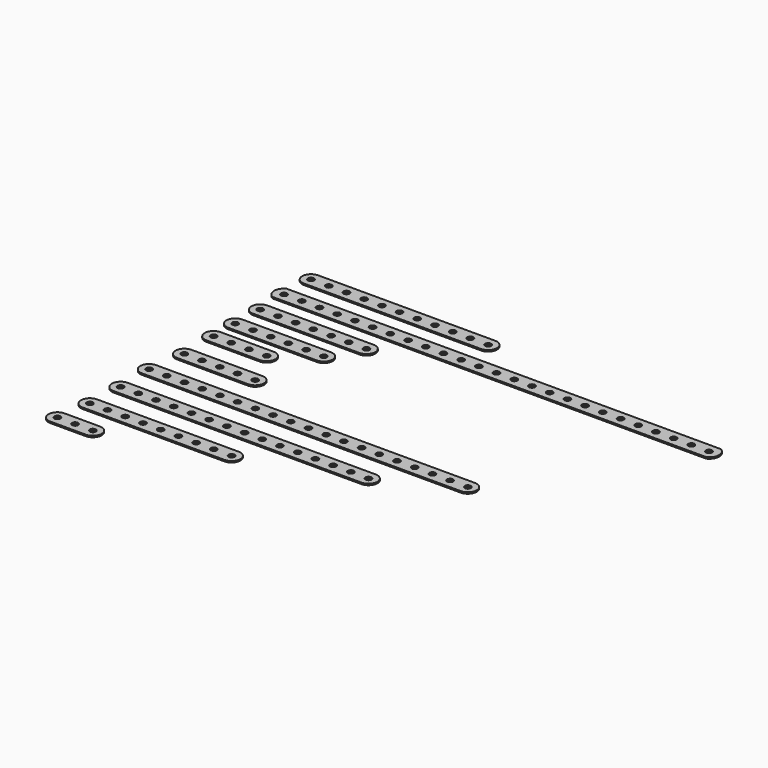
from build123d import *

# Parameters (mm, degrees)
F0_R      = 2.1844
F1_DEPTH  = 1.016
F2_R      = 2.1844
F3_DEPTH  = 1.016
F4_R      = 2.1844
F5_DEPTH  = 1.016
F6_R      = 2.1844
F7_DEPTH  = 1.016
F8_R      = 2.1844
F9_DEPTH  = 1.016
F10_R     = 2.1844
F11_DEPTH = 1.016
F12_R     = 2.1844
F13_DEPTH = 1.016
F14_R     = 2.1844
F15_DEPTH = 1.016
F16_R     = 2.1844
F17_DEPTH = 1.016
F18_R     = 2.1844
F19_DEPTH = 1.016


with BuildPart() as f1:
    # F0 (on Top) → F1 (new body)
    with BuildSketch(Plane.XY):
        with BuildLine():
            Line((314.193466, 70.57017), (2.68476, 70.57017))
            ThreePointArc((2.68476, 70.57017), (-1.193804, 64.22017), (2.68476, 57.87017))
            Line((2.68476, 57.87017), (313.796088, 57.87017))
            ThreePointArc((313.796088, 57.87017), (317.877509, 64.098681), (314.193466, 70.57017))
        make_face()
        with Locations((5.9436, 64.22017)):
            Circle(F0_R, mode=Mode.SUBTRACT)
        with Locations((18.6436, 64.22017)):
            Circle(F0_R, mode=Mode.SUBTRACT)
        with Locations((31.3436, 64.22017)):
            Circle(F0_R, mode=Mode.SUBTRACT)
        with Locations((44.0436, 64.22017)):
            Circle(F0_R, mode=Mode.SUBTRACT)
        with Locations((56.7436, 64.22017)):
            Circle(F0_R, mode=Mode.SUBTRACT)
        with Locations((69.4436, 64.22017)):
            Circle(F0_R, mode=Mode.SUBTRACT)
        with Locations((82.1436, 64.22017)):
            Circle(F0_R, mode=Mode.SUBTRACT)
        with Locations((94.8436, 64.22017)):
            Circle(F0_R, mode=Mode.SUBTRACT)
        with Locations((107.5436, 64.22017)):
            Circle(F0_R, mode=Mode.SUBTRACT)
        with Locations((120.2436, 64.22017)):
            Circle(F0_R, mode=Mode.SUBTRACT)
        with Locations((132.9436, 64.22017)):
            Circle(F0_R, mode=Mode.SUBTRACT)
        with Locations((145.6436, 64.22017)):
            Circle(F0_R, mode=Mode.SUBTRACT)
        with Locations((158.3436, 64.22017)):
            Circle(F0_R, mode=Mode.SUBTRACT)
        with Locations((171.0436, 64.22017)):
            Circle(F0_R, mode=Mode.SUBTRACT)
        with Locations((183.7436, 64.22017)):
            Circle(F0_R, mode=Mode.SUBTRACT)
        with Locations((196.4436, 64.22017)):
            Circle(F0_R, mode=Mode.SUBTRACT)
        with Locations((209.1436, 64.22017)):
            Circle(F0_R, mode=Mode.SUBTRACT)
        with Locations((221.8436, 64.22017)):
            Circle(F0_R, mode=Mode.SUBTRACT)
        with Locations((234.5436, 64.22017)):
            Circle(F0_R, mode=Mode.SUBTRACT)
        with Locations((247.2436, 64.22017)):
            Circle(F0_R, mode=Mode.SUBTRACT)
        with Locations((259.9436, 64.22017)):
            Circle(F0_R, mode=Mode.SUBTRACT)
        with Locations((272.6436, 64.22017)):
            Circle(F0_R, mode=Mode.SUBTRACT)
        with Locations((285.3436, 64.22017)):
            Circle(F0_R, mode=Mode.SUBTRACT)
        with Locations((298.0436, 64.22017)):
            Circle(F0_R, mode=Mode.SUBTRACT)
        with Locations((310.7436, 64.22017)):
            Circle(F0_R, mode=Mode.SUBTRACT)
    extrude(amount=F1_DEPTH)


with BuildPart() as f3:
    # F2 (on Top) → F3 (new body)
    with BuildSketch(Plane.XY):
        with BuildLine():
            Line((133.349999, 94.23753), (6.349999, 94.23753))
            ThreePointArc((6.349999, 94.23753), (-1e-06, 87.88753), (6.349999, 81.53753))
            Line((6.349999, 81.53753), (133.349999, 81.53753))
            ThreePointArc((133.349999, 81.53753), (139.699999, 87.88753), (133.349999, 94.23753))
        make_face()
        with Locations((6.349999, 87.88753)):
            Circle(F2_R, mode=Mode.SUBTRACT)
        with Locations((19.049999, 87.88753)):
            Circle(F2_R, mode=Mode.SUBTRACT)
        with Locations((31.749999, 87.88753)):
            Circle(F2_R, mode=Mode.SUBTRACT)
        with Locations((44.449999, 87.88753)):
            Circle(F2_R, mode=Mode.SUBTRACT)
        with Locations((57.149999, 87.88753)):
            Circle(F2_R, mode=Mode.SUBTRACT)
        with Locations((69.849999, 87.88753)):
            Circle(F2_R, mode=Mode.SUBTRACT)
        with Locations((82.549999, 87.88753)):
            Circle(F2_R, mode=Mode.SUBTRACT)
        with Locations((95.249999, 87.88753)):
            Circle(F2_R, mode=Mode.SUBTRACT)
        with Locations((107.949999, 87.88753)):
            Circle(F2_R, mode=Mode.SUBTRACT)
        with Locations((120.649999, 87.88753)):
            Circle(F2_R, mode=Mode.SUBTRACT)
        with Locations((133.349999, 87.88753)):
            Circle(F2_R, mode=Mode.SUBTRACT)
    extrude(amount=F3_DEPTH)


with BuildPart() as f5:
    # F4 (on Top) → F5 (new body)
    with BuildSketch(Plane.XY):
        with BuildLine():
            Line((83.154835, 47.89984), (6.954835, 47.89984))
            ThreePointArc((6.954835, 47.89984), (0.604835, 41.54984), (6.954835, 35.19984))
            Line((6.954835, 35.19984), (83.154835, 35.19984))
            ThreePointArc((83.154835, 35.19984), (89.504835, 41.54984), (83.154835, 47.89984))
        make_face()
        with Locations((6.954835, 41.54984)):
            Circle(F4_R, mode=Mode.SUBTRACT)
        with Locations((19.654835, 41.54984)):
            Circle(F4_R, mode=Mode.SUBTRACT)
        with Locations((32.354835, 41.54984)):
            Circle(F4_R, mode=Mode.SUBTRACT)
        with Locations((45.054835, 41.54984)):
            Circle(F4_R, mode=Mode.SUBTRACT)
        with Locations((57.754835, 41.54984)):
            Circle(F4_R, mode=Mode.SUBTRACT)
        with Locations((70.454835, 41.54984)):
            Circle(F4_R, mode=Mode.SUBTRACT)
        with Locations((83.154835, 41.54984)):
            Circle(F4_R, mode=Mode.SUBTRACT)
    extrude(amount=F5_DEPTH)


with BuildPart() as f7:
    # F6 (on Top) → F7 (new body)
    with BuildSketch(Plane.XY):
        with BuildLine():
            Line((70.170102, 25.907999), (6.670102, 25.907999))
            ThreePointArc((6.670102, 25.907999), (0.320102, 19.557999), (6.670102, 13.207999))
            Line((6.670102, 13.207999), (70.170102, 13.207999))
            ThreePointArc((70.170102, 13.207999), (76.520102, 19.557999), (70.170102, 25.907999))
        make_face()
        with Locations((6.670102, 19.557999)):
            Circle(F6_R, mode=Mode.SUBTRACT)
        with Locations((32.070102, 19.557999)):
            Circle(F6_R, mode=Mode.SUBTRACT)
        with Locations((44.770102, 19.557999)):
            Circle(F6_R, mode=Mode.SUBTRACT)
        with Locations((57.470102, 19.557999)):
            Circle(F6_R, mode=Mode.SUBTRACT)
        with Locations((70.170102, 19.557999)):
            Circle(F6_R, mode=Mode.SUBTRACT)
        with Locations((19.370102, 19.557999)):
            Circle(F6_R, mode=Mode.SUBTRACT)
    extrude(amount=F7_DEPTH)


with BuildPart() as f9:
    # F8 (on Top) → F9 (new body)
    with BuildSketch(Plane.XY):
        with BuildLine():
            Line((58.157745, -20.607921), (7.357745, -20.607921))
            ThreePointArc((7.357745, -20.607921), (1.007745, -26.957921), (7.357745, -33.307921))
            Line((7.357745, -33.307921), (58.157745, -33.307921))
            ThreePointArc((58.157745, -33.307921), (64.507745, -26.957921), (58.157745, -20.607921))
        make_face()
        with Locations((32.757745, -26.957921)):
            Circle(F8_R, mode=Mode.SUBTRACT)
        with Locations((7.357745, -26.957921)):
            Circle(F8_R, mode=Mode.SUBTRACT)
        with Locations((20.057745, -26.957921)):
            Circle(F8_R, mode=Mode.SUBTRACT)
        with Locations((45.457745, -26.957921)):
            Circle(F8_R, mode=Mode.SUBTRACT)
        with Locations((58.157745, -26.957921)):
            Circle(F8_R, mode=Mode.SUBTRACT)
    extrude(amount=F9_DEPTH)


with BuildPart() as f11:
    # F10 (on Top) → F11 (new body)
    with BuildSketch(Plane.XY):
        with BuildLine():
            Line((44.86276, 6.318229), (6.76276, 6.318229))
            ThreePointArc((6.76276, 6.318229), (0.41276, -0.031771), (6.76276, -6.381771))
            Line((6.76276, -6.381771), (44.86276, -6.381771))
            ThreePointArc((44.86276, -6.381771), (51.21276, -0.031771), (44.86276, 6.318229))
        make_face()
        with Locations((6.76276, -0.031771)):
            Circle(F10_R, mode=Mode.SUBTRACT)
        with Locations((19.46276, -0.031771)):
            Circle(F10_R, mode=Mode.SUBTRACT)
        with Locations((32.16276, -0.031771)):
            Circle(F10_R, mode=Mode.SUBTRACT)
        with Locations((44.86276, -0.031771)):
            Circle(F10_R, mode=Mode.SUBTRACT)
    extrude(amount=F11_DEPTH)


with BuildPart() as f13:
    # F12 (on Top) → F13 (new body)
    with BuildSketch(Plane.XY):
        with BuildLine():
            Line((232.171875, -47.49799), (3.571875, -47.49799))
            ThreePointArc((3.571875, -47.49799), (-2.778125, -53.84799), (3.571875, -60.19799))
            Line((3.571875, -60.19799), (232.171875, -60.19799))
            ThreePointArc((232.171875, -60.19799), (238.521875, -53.84799), (232.171875, -47.49799))
        make_face()
        with Locations((3.571875, -53.84799)):
            Circle(F12_R, mode=Mode.SUBTRACT)
        with Locations((16.271875, -53.84799)):
            Circle(F12_R, mode=Mode.SUBTRACT)
        with Locations((28.971875, -53.84799)):
            Circle(F12_R, mode=Mode.SUBTRACT)
        with Locations((41.671875, -53.84799)):
            Circle(F12_R, mode=Mode.SUBTRACT)
        with Locations((54.371875, -53.84799)):
            Circle(F12_R, mode=Mode.SUBTRACT)
        with Locations((67.071875, -53.84799)):
            Circle(F12_R, mode=Mode.SUBTRACT)
        with Locations((79.771875, -53.84799)):
            Circle(F12_R, mode=Mode.SUBTRACT)
        with Locations((92.471875, -53.84799)):
            Circle(F12_R, mode=Mode.SUBTRACT)
        with Locations((105.171875, -53.84799)):
            Circle(F12_R, mode=Mode.SUBTRACT)
        with Locations((117.871875, -53.84799)):
            Circle(F12_R, mode=Mode.SUBTRACT)
        with Locations((130.571875, -53.84799)):
            Circle(F12_R, mode=Mode.SUBTRACT)
        with Locations((143.271875, -53.84799)):
            Circle(F12_R, mode=Mode.SUBTRACT)
        with Locations((155.971875, -53.84799)):
            Circle(F12_R, mode=Mode.SUBTRACT)
        with Locations((168.671875, -53.84799)):
            Circle(F12_R, mode=Mode.SUBTRACT)
        with Locations((181.371875, -53.84799)):
            Circle(F12_R, mode=Mode.SUBTRACT)
        with Locations((194.071875, -53.84799)):
            Circle(F12_R, mode=Mode.SUBTRACT)
        with Locations((206.771875, -53.84799)):
            Circle(F12_R, mode=Mode.SUBTRACT)
        with Locations((219.471875, -53.84799)):
            Circle(F12_R, mode=Mode.SUBTRACT)
        with Locations((232.171875, -53.84799)):
            Circle(F12_R, mode=Mode.SUBTRACT)
    extrude(amount=F13_DEPTH)


with BuildPart() as f15:
    # F14 (on Top) → F15 (new body)
    with BuildSketch(Plane.XY):
        with BuildLine():
            Line((182.297916, -74.167996), (4.497916, -74.167996))
            ThreePointArc((4.497916, -74.167996), (-1.852084, -80.517996), (4.497916, -86.867996))
            Line((4.497916, -86.867996), (182.297916, -86.867996))
            ThreePointArc((182.297916, -86.867996), (188.647916, -80.517996), (182.297916, -74.167996))
        make_face()
        with Locations((4.497916, -80.517996)):
            Circle(F14_R, mode=Mode.SUBTRACT)
        with Locations((17.197916, -80.517996)):
            Circle(F14_R, mode=Mode.SUBTRACT)
        with Locations((29.897916, -80.517996)):
            Circle(F14_R, mode=Mode.SUBTRACT)
        with Locations((42.597916, -80.517996)):
            Circle(F14_R, mode=Mode.SUBTRACT)
        with Locations((55.297916, -80.517996)):
            Circle(F14_R, mode=Mode.SUBTRACT)
        with Locations((67.997916, -80.517996)):
            Circle(F14_R, mode=Mode.SUBTRACT)
        with Locations((80.697916, -80.517996)):
            Circle(F14_R, mode=Mode.SUBTRACT)
        with Locations((93.397916, -80.517996)):
            Circle(F14_R, mode=Mode.SUBTRACT)
        with Locations((106.097916, -80.517996)):
            Circle(F14_R, mode=Mode.SUBTRACT)
        with Locations((118.797916, -80.517996)):
            Circle(F14_R, mode=Mode.SUBTRACT)
        with Locations((131.497916, -80.517996)):
            Circle(F14_R, mode=Mode.SUBTRACT)
        with Locations((144.197916, -80.517996)):
            Circle(F14_R, mode=Mode.SUBTRACT)
        with Locations((156.897916, -80.517996)):
            Circle(F14_R, mode=Mode.SUBTRACT)
        with Locations((169.597916, -80.517996)):
            Circle(F14_R, mode=Mode.SUBTRACT)
        with Locations((182.297916, -80.517996)):
            Circle(F14_R, mode=Mode.SUBTRACT)
    extrude(amount=F15_DEPTH)


with BuildPart() as f17:
    # F16 (on Top) → F17 (new body)
    with BuildSketch(Plane.XY):
        with BuildLine():
            Line((105.171875, -100.583999), (3.571875, -100.583999))
            ThreePointArc((3.571875, -100.583999), (-2.778125, -106.933999), (3.571875, -113.283999))
            Line((3.571875, -113.283999), (105.171875, -113.283999))
            ThreePointArc((105.171875, -113.283999), (111.521875, -106.933999), (105.171875, -100.583999))
        make_face()
        with Locations((3.571875, -106.933999)):
            Circle(F16_R, mode=Mode.SUBTRACT)
        with Locations((16.271875, -106.933999)):
            Circle(F16_R, mode=Mode.SUBTRACT)
        with Locations((28.971875, -106.933999)):
            Circle(F16_R, mode=Mode.SUBTRACT)
        with Locations((41.671875, -106.933999)):
            Circle(F16_R, mode=Mode.SUBTRACT)
        with Locations((54.371875, -106.933999)):
            Circle(F16_R, mode=Mode.SUBTRACT)
        with Locations((67.071875, -106.933999)):
            Circle(F16_R, mode=Mode.SUBTRACT)
        with Locations((79.771875, -106.933999)):
            Circle(F16_R, mode=Mode.SUBTRACT)
        with Locations((92.471875, -106.933999)):
            Circle(F16_R, mode=Mode.SUBTRACT)
        with Locations((105.171875, -106.933999)):
            Circle(F16_R, mode=Mode.SUBTRACT)
    extrude(amount=F17_DEPTH)


with BuildPart() as f19:
    # F18 (on Top) → F19 (new body)
    with BuildSketch(Plane.XY):
        with BuildLine():
            Line((25.4, -125.221989), (0, -125.221989))
            ThreePointArc((0, -125.221989), (-6.35, -131.571989), (0, -137.921989))
            Line((0, -137.921989), (25.4, -137.921989))
            ThreePointArc((25.4, -137.921989), (31.75, -131.571989), (25.4, -125.221989))
        make_face()
        with Locations((0, -131.571989)):
            Circle(F18_R, mode=Mode.SUBTRACT)
        with Locations((12.7, -131.571989)):
            Circle(F18_R, mode=Mode.SUBTRACT)
        with Locations((25.4, -131.571989)):
            Circle(F18_R, mode=Mode.SUBTRACT)
    extrude(amount=F19_DEPTH)


solid = Compound([f1.part, f3.part, f5.part, f7.part, f9.part, f11.part, f13.part, f15.part, f17.part, f19.part])
